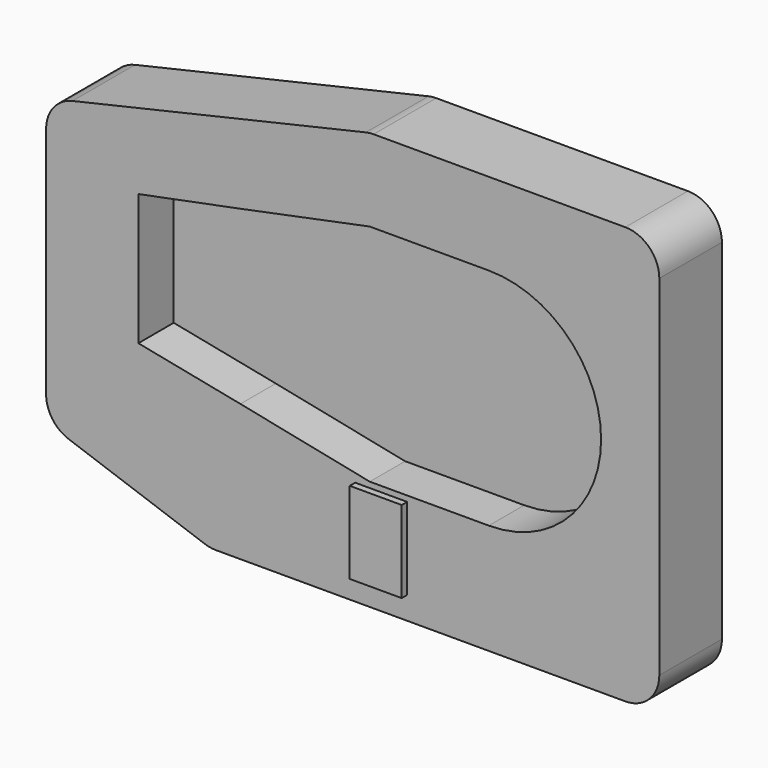
from build123d import *

# Parameters (mm, degrees)
F1_DEPTH = 6.5
F2_DEPTH = 5
F3_R     = 5
F4_W     = 7.6346651632
F4_H     = 12.0459031314
F5_DEPTH = 1


with BuildPart() as f1:
    # F0 (on Front) → F1 (new body)
    with BuildSketch(Plane.XZ):
        Polygon((42.5548888743, 28.6260936409), (31.0699325055, 28.6260936409), (0, 28.6260936409), (-47.5578345358, 17.6459699869), (-47.5578345358, -24.210675411), (-23.4520491213, -32.7111370862), (42.5548888743, -32.7111370862), align=None)
        with BuildLine():
            Line((-19, 12.625), (0, 16.5))
            Line((0, 16.5), (17.5, 16.5))
            ThreePointArc((17.5, 16.5), (34, 0), (17.5, -16.5))
            Line((17.5, -16.5), (0, -16.5))
            Line((0, -16.5), (-19, -12.625))
            Line((-19, -12.625), (-34, -9.65))
            Line((-34, -9.65), (-34, 9.65))
            Line((-34, 9.65), (-19, 12.625))
        make_face(mode=Mode.SUBTRACT)
    extrude(amount=F1_DEPTH)

    # F0 (on Front) → F2 (join)
    with BuildSketch(Plane.XZ):
        Polygon((42.5548888743, 28.6260936409), (31.0699325055, 28.6260936409), (0, 28.6260936409), (-47.5578345358, 17.6459699869), (-47.5578345358, -24.210675411), (-23.4520491213, -32.7111370862), (42.5548888743, -32.7111370862), align=None)
        with BuildLine():
            Line((-19, 12.625), (0, 16.5))
            Line((0, 16.5), (17.5, 16.5))
            ThreePointArc((17.5, 16.5), (34, 0), (17.5, -16.5))
            Line((17.5, -16.5), (0, -16.5))
            Line((0, -16.5), (-19, -12.625))
            Line((-19, -12.625), (-34, -9.65))
            Line((-34, -9.65), (-34, 9.65))
            Line((-34, 9.65), (-19, 12.625))
        make_face(mode=Mode.SUBTRACT)
        with BuildLine():
            Line((17.5, 16.5), (0, 16.5))
            Line((0, 16.5), (-19, 12.625))
            Line((-19, 12.625), (-34, 9.65))
            Line((-34, 9.65), (-34, -9.65))
            Line((-34, -9.65), (-19, -12.625))
            Line((-19, -12.625), (0, -16.5))
            Line((0, -16.5), (17.5, -16.5))
            ThreePointArc((17.5, -16.5), (34, 0), (17.5, 16.5))
        make_face()
    extrude(amount=-F2_DEPTH)

    # F3
    f3_edges = [f1.edges().sort_by_distance(p)[0] for p in [
        (42.554889, -0.75, 28.626094),
        (42.554889, -0.75, -32.711137),
        (-47.557835, -0.75, -24.210675),
        (-47.557835, -0.75, 17.64597),
        (0, -0.75, 28.626094),
        (-23.452049, -0.75, -32.711137),
    ]]
    fillet(f3_edges, radius=F3_R)

    # F4 (on face) → F5 (join)
    with BuildSketch(Plane.XZ.offset(6.5)):
        with Locations((1.6826674184, -23.3507947996)):
            Rectangle(F4_W, F4_H)
    extrude(amount=F5_DEPTH)


solid = f1.part
